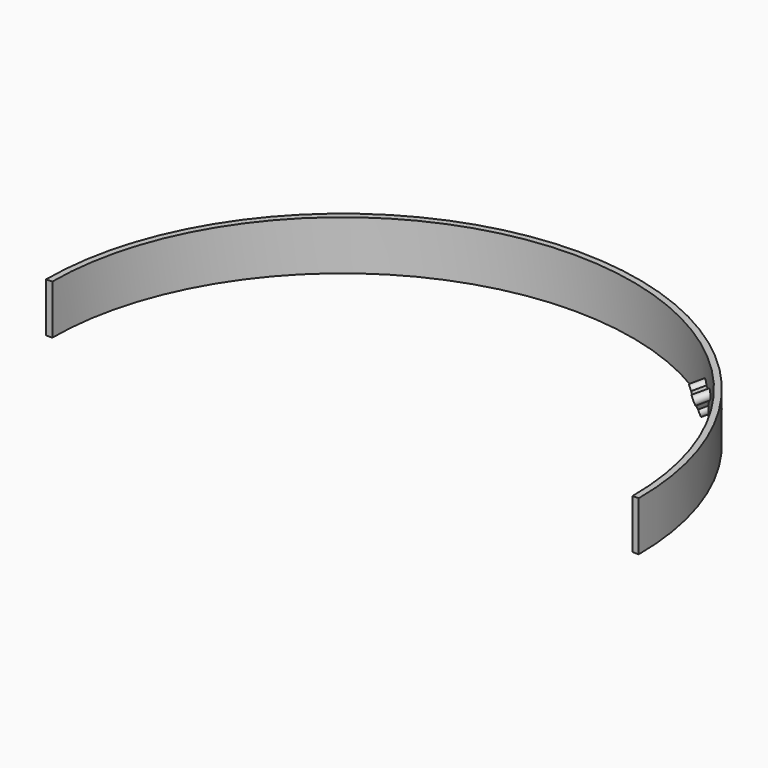
from build123d import *

# Parameters (mm, degrees)
F1_DEPTH = 25.4
F8_START = -2.794
F7_R     = 2.4892
F7_R_2   = 1.4605
F8_DEPTH = 8.89


with BuildPart() as f1:
    # F0 (on Top) → F1 (new body)
    with BuildSketch(Plane.XY):
        with BuildLine():
            Line((149.225, 0), (152.4, 0))
            ThreePointArc((152.4, 0), (0, 152.4), (-152.4, 0))
            Line((-152.4, 0), (-149.225, 0))
            ThreePointArc((-149.225, 0), (0, 149.225), (149.225, 0))
        make_face()
    extrude(amount=F1_DEPTH)


with BuildPart() as f1_1:
    # F3: moved
    add(f1.part.moved(Location((0, 0, 40.132))))

    # F7 (on line) → F8 (join)
    with BuildSketch(Plane(origin=(108.0295784467, 108.0295784467, 55.0438195167), x_dir=(-0.5927390582, 0.7466237105, -0.3020156351), z_dir=(0.6652465971, 0.6652465971, 0.3389600714)).offset(F8_START)):
        with BuildLine():
            ThreePointArc((12.093789379, -5.2641145775), (13.3911732083, -4.2558924077), (15.0318776469, -4.3442422195))
            Line((15.0318776469, -4.3442422195), (15.8736359982, 0.4296066149))
            ThreePointArc((15.8736359982, 0.4296066149), (14.3517980719, 1.0490628846), (13.6079590341, 2.5141295145))
            Line((13.6079590341, 2.5141295145), (9.0528054939, 0.8561892133))
            ThreePointArc((9.0528054939, 0.8561892133), (9.2626030629, 0.3163827378), (9.3339812394, -0.258344334))
            ThreePointArc((9.3339812394, -0.258344334), (9.0820807874, -1.3167518103), (8.3803941903, -2.1482060442))
            Line((8.3803941903, -2.1482060442), (12.093789379, -5.2641145775))
        make_face()
        with Locations((12.3400769571, -1.3261062497)):
            Circle(F7_R, mode=Mode.SUBTRACT)
        with BuildLine():
            ThreePointArc((13.6079590341, 2.5141295145), (14.3517980719, 1.0490628846), (15.8736359982, 0.4296066149))
            ThreePointArc((15.8736359982, 0.4296066149), (17.5793729163, 1.0925469), (18.2920837601, 2.7780947363))
            ThreePointArc((18.2920837601, 2.7780947363), (15.8103917482, 5.1238729701), (13.6079590341, 2.5141295145))
        make_face()
        with Locations((15.941936242, 2.7773570432)):
            Circle(F7_R_2, mode=Mode.SUBTRACT)
        with BuildLine():
            ThreePointArc((9.0528054939, 0.8561892133), (4.6917028878, 0.2548005582), (8.3803941903, -2.1482060442))
            ThreePointArc((8.3803941903, -2.1482060442), (9.0820807874, -1.3167518103), (9.3339812394, -0.258344334))
            ThreePointArc((9.3339812394, -0.258344334), (9.2626030629, 0.3163827378), (9.0528054939, 0.8561892133))
        make_face()
        with Locations((6.9854438594, -0.2585362546)):
            Circle(F7_R_2, mode=Mode.SUBTRACT)
        with BuildLine():
            ThreePointArc((12.093789379, -5.2641145775), (13.4518332042, -8.7583440595), (16.4426658717, -6.4980691515))
            ThreePointArc((16.4426658717, -6.4980691515), (16.0585734078, -5.2106983941), (15.0318776469, -4.3442422195))
            ThreePointArc((15.0318776469, -4.3442422195), (13.3911732083, -4.2558924077), (12.093789379, -5.2641145775))
        make_face()
        with Locations((14.0928507698, -6.4971395379)):
            Circle(F7_R_2, mode=Mode.SUBTRACT)
    extrude(amount=-F8_DEPTH)


solid = f1_1.part
